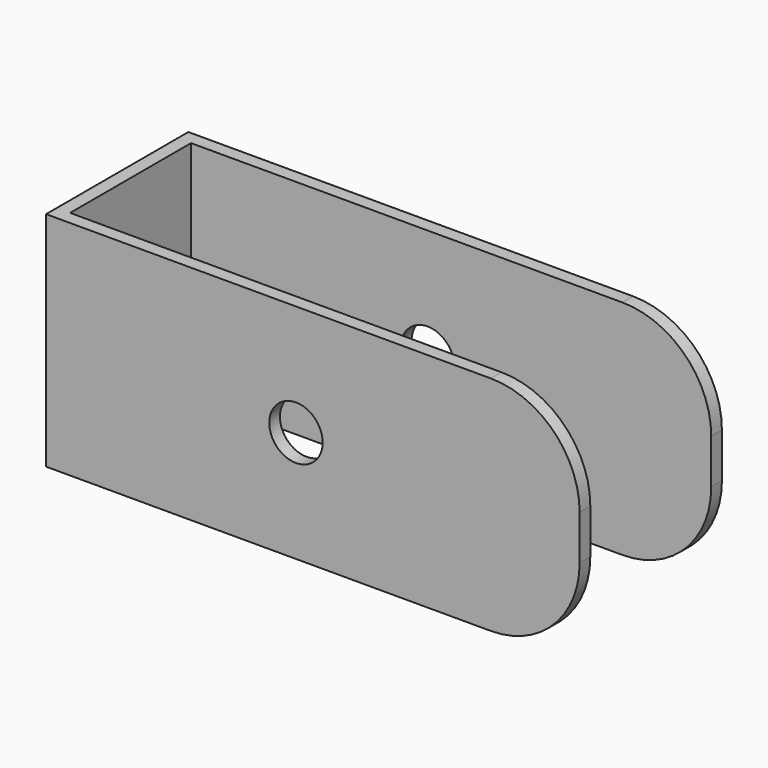
from build123d import *

# Parameters (mm, degrees)
F1_DEPTH = 20
F2_W     = 140
F2_H     = 34
F3_DEPTH = 60
F4_R     = 6
F5_DEPTH = 50


with BuildPart() as f1:
    # F0 (on Front) → F1 (new body, symmetric)
    with BuildSketch(Plane.XZ):
        with BuildLine():
            Line((40, 25), (-60, 25))
            Line((-60, 25), (-60, -25))
            Line((-60, -25), (40, -25))
            ThreePointArc((40, -25), (54.142136, -19.142136), (60, -5))
            Line((60, -5), (60, 5))
            ThreePointArc((60, 5), (54.142136, 19.142136), (40, 25))
        make_face()
    extrude(amount=F1_DEPTH, both=True)

    # F2 (on face) → F3 (cut)
    with BuildSketch(Plane.XY.offset(25)):
        with Locations((13, 0)):
            Rectangle(F2_W, F2_H)
    extrude(amount=-F3_DEPTH, mode=Mode.SUBTRACT)

    # F4 (on face) → F5 (cut)
    with BuildSketch(Plane(origin=(0, 20, 0), x_dir=(-1, 0, 0), z_dir=(0, 1, 0))):
        with Locations((3.8, 0)):
            Circle(F4_R)
    extrude(amount=-F5_DEPTH, mode=Mode.SUBTRACT)


solid = f1.part
